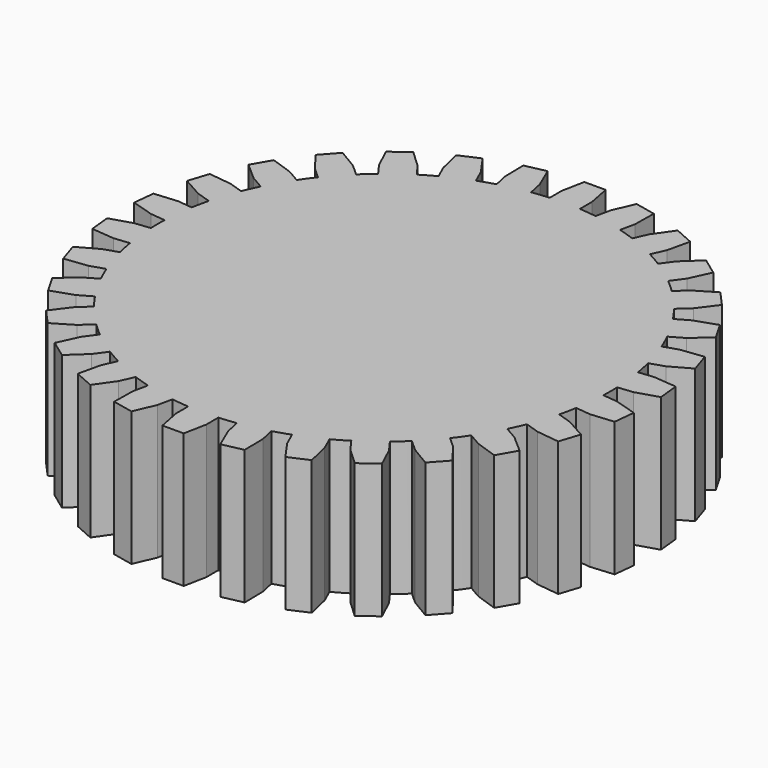
from build123d import *

# Parameters (mm, degrees)
F1_DEPTH = 17.8


with BuildPart() as f1:
    # F0 (on Top) → F1 (new body)
    with BuildSketch(Plane.XY):
        with BuildLine():
            Line((-25.069297, 19.881231), (-23.583008, 18.54297))
            ThreePointArc((-23.583008, 18.54297), (-24.27051, 17.633558), (-24.922963, 16.69868))
            Line((-24.922963, 16.69868), (-26.655014, 17.69868))
            Line((-26.655014, 17.69868), (-29.547976, 18.687922))
            Line((-29.547976, 18.687922), (-30.958203, 16.245337))
            Line((-30.958203, 16.245337), (-28.655014, 14.234579))
            Line((-28.655014, 14.234579), (-26.922963, 13.234579))
            ThreePointArc((-26.922963, 13.234579), (-27.406364, 12.202099), (-27.850187, 11.151999))
            Line((-27.850187, 11.151999), (-29.7523, 11.770033))
            Line((-29.7523, 11.770033), (-32.78772, 12.136176))
            Line((-32.78772, 12.136176), (-33.659288, 9.453765))
            Line((-33.659288, 9.453765), (-30.988368, 7.965807))
            Line((-30.988368, 7.965807), (-29.086255, 7.347773))
            ThreePointArc((-29.086255, 7.347773), (-29.344428, 6.237351), (-29.560225, 5.117921))
            Line((-29.560225, 5.117921), (-31.549268, 5.326978))
            Line((-31.549268, 5.326978), (-34.594482, 5.054021))
            Line((-34.594482, 5.054021), (-34.8893, 2.249018))
            Line((-34.8893, 2.249018), (-31.967382, 1.348891))
            Line((-31.967382, 1.348891), (-29.978338, 1.139834))
            ThreePointArc((-29.978338, 1.139834), (-30, 0), (-29.978338, -1.139834))
            Line((-29.978338, -1.139834), (-31.967382, -1.348891))
            Line((-31.967382, -1.348891), (-34.8893, -2.249018))
            Line((-34.8893, -2.249018), (-34.594482, -5.054021))
            Line((-34.594482, -5.054021), (-31.549268, -5.326978))
            Line((-31.549268, -5.326978), (-29.560225, -5.117921))
            ThreePointArc((-29.560225, -5.117921), (-29.344428, -6.237351), (-29.086255, -7.347773))
            Line((-29.086255, -7.347773), (-30.988368, -7.965807))
            Line((-30.988368, -7.965807), (-33.659288, -9.453765))
            Line((-33.659288, -9.453765), (-32.78772, -12.136176))
            Line((-32.78772, -12.136176), (-29.7523, -11.770033))
            Line((-29.7523, -11.770033), (-27.850187, -11.151999))
            ThreePointArc((-27.850187, -11.151999), (-27.406364, -12.202099), (-26.922963, -13.234579))
            Line((-26.922963, -13.234579), (-28.655014, -14.234579))
            Line((-28.655014, -14.234579), (-30.958203, -16.245337))
            Line((-30.958203, -16.245337), (-29.547976, -18.687922))
            Line((-29.547976, -18.687922), (-26.655014, -17.69868))
            Line((-26.655014, -17.69868), (-24.922963, -16.69868))
            ThreePointArc((-24.922963, -16.69868), (-24.27051, -17.633558), (-23.583008, -18.54297))
            Line((-23.583008, -18.54297), (-25.069297, -19.881231))
            Line((-25.069297, -19.881231), (-26.904097, -22.32691))
            Line((-26.904097, -22.32691), (-25.016845, -24.422916))
            Line((-25.016845, -24.422916), (-22.392775, -22.853811))
            Line((-22.392775, -22.853811), (-20.906485, -21.515549))
            ThreePointArc((-20.906485, -21.515549), (-20.073918, -22.294345), (-19.212362, -23.040945))
            Line((-19.212362, -23.040945), (-20.387933, -24.658979))
            Line((-20.387933, -24.658979), (-21.674152, -27.43269))
            Line((-21.674152, -27.43269), (-19.392357, -29.090511))
            Line((-19.392357, -29.090511), (-17.151865, -27.01012))
            Line((-17.151865, -27.01012), (-15.976294, -25.392086))
            ThreePointArc((-15.976294, -25.392086), (-15, -25.980762), (-14.002044, -26.53192))
            Line((-14.002044, -26.53192), (-14.815518, -28.359011))
            Line((-14.815518, -28.359011), (-15.496943, -31.339529))
            Line((-15.496943, -31.339529), (-12.92033, -32.486711))
            Line((-12.92033, -32.486711), (-11.161336, -29.985957))
            Line((-11.161336, -29.985957), (-10.347862, -28.158866))
            ThreePointArc((-10.347862, -28.158866), (-9.27051, -28.531695), (-8.17977, -28.863322))
            Line((-8.17977, -28.863322), (-8.595593, -30.819617))
            Line((-8.595593, -30.819617), (-8.642443, -33.876681))
            Line((-8.642443, -33.876681), (-5.883623, -34.463086))
            Line((-5.883623, -34.463086), (-4.683003, -31.651264))
            Line((-4.683003, -31.651264), (-4.267179, -29.694969))
            ThreePointArc((-4.267179, -29.694969), (-3.135854, -29.835657), (-2, -29.933259))
            Line((-2, -29.933259), (-2, -31.933259))
            Line((-2, -31.933259), (-1.410227, -34.933259))
            Line((-1.410227, -34.933259), (1.410227, -34.933259))
            Line((1.410227, -34.933259), (2, -31.933259))
            Line((2, -31.933259), (2, -29.933259))
            ThreePointArc((2, -29.933259), (3.135854, -29.835657), (4.267179, -29.694969))
            Line((4.267179, -29.694969), (4.683003, -31.651264))
            Line((4.683003, -31.651264), (5.883623, -34.463086))
            Line((5.883623, -34.463086), (8.642443, -33.876681))
            Line((8.642443, -33.876681), (8.595593, -30.819617))
            Line((8.595593, -30.819617), (8.17977, -28.863322))
            ThreePointArc((8.17977, -28.863322), (9.27051, -28.531695), (10.347862, -28.158866))
            Line((10.347862, -28.158866), (11.161336, -29.985957))
            Line((11.161336, -29.985957), (12.92033, -32.486711))
            Line((12.92033, -32.486711), (15.496943, -31.339529))
            Line((15.496943, -31.339529), (14.815518, -28.359011))
            Line((14.815518, -28.359011), (14.002044, -26.53192))
            ThreePointArc((14.002044, -26.53192), (15, -25.980762), (15.976294, -25.392086))
            Line((15.976294, -25.392086), (17.151865, -27.01012))
            Line((17.151865, -27.01012), (19.392357, -29.090511))
            Line((19.392357, -29.090511), (21.674152, -27.43269))
            Line((21.674152, -27.43269), (20.387933, -24.658979))
            Line((20.387933, -24.658979), (19.212362, -23.040945))
            ThreePointArc((19.212362, -23.040945), (20.073918, -22.294345), (20.906485, -21.515549))
            Line((20.906485, -21.515549), (22.392775, -22.853811))
            Line((22.392775, -22.853811), (25.016845, -24.422916))
            Line((25.016845, -24.422916), (26.904097, -22.32691))
            Line((26.904097, -22.32691), (25.069297, -19.881231))
            Line((25.069297, -19.881231), (23.583008, -18.54297))
            ThreePointArc((23.583008, -18.54297), (24.27051, -17.633558), (24.922963, -16.69868))
            Line((24.922963, -16.69868), (26.655014, -17.69868))
            Line((26.655014, -17.69868), (29.547976, -18.687922))
            Line((29.547976, -18.687922), (30.958203, -16.245337))
            Line((30.958203, -16.245337), (28.655014, -14.234579))
            Line((28.655014, -14.234579), (26.922963, -13.234579))
            ThreePointArc((26.922963, -13.234579), (27.406364, -12.202099), (27.850187, -11.151999))
            Line((27.850187, -11.151999), (29.7523, -11.770033))
            Line((29.7523, -11.770033), (32.78772, -12.136176))
            Line((32.78772, -12.136176), (33.659288, -9.453765))
            Line((33.659288, -9.453765), (30.988368, -7.965807))
            Line((30.988368, -7.965807), (29.086255, -7.347773))
            ThreePointArc((29.086255, -7.347773), (29.344428, -6.237351), (29.560225, -5.117921))
            Line((29.560225, -5.117921), (31.549268, -5.326978))
            Line((31.549268, -5.326978), (34.594482, -5.054021))
            Line((34.594482, -5.054021), (34.8893, -2.249018))
            Line((34.8893, -2.249018), (31.967382, -1.348891))
            Line((31.967382, -1.348891), (29.978338, -1.139834))
            ThreePointArc((29.978338, -1.139834), (30, 0), (29.978338, 1.139834))
            Line((29.978338, 1.139834), (31.967382, 1.348891))
            Line((31.967382, 1.348891), (34.8893, 2.249018))
            Line((34.8893, 2.249018), (34.594482, 5.054021))
            Line((34.594482, 5.054021), (31.549268, 5.326978))
            Line((31.549268, 5.326978), (29.560225, 5.117921))
            ThreePointArc((29.560225, 5.117921), (29.344428, 6.237351), (29.086255, 7.347773))
            Line((29.086255, 7.347773), (30.988368, 7.965807))
            Line((30.988368, 7.965807), (33.659288, 9.453765))
            Line((33.659288, 9.453765), (32.78772, 12.136176))
            Line((32.78772, 12.136176), (29.7523, 11.770033))
            Line((29.7523, 11.770033), (27.850187, 11.151999))
            ThreePointArc((27.850187, 11.151999), (27.406364, 12.202099), (26.922963, 13.234579))
            Line((26.922963, 13.234579), (28.655014, 14.234579))
            Line((28.655014, 14.234579), (30.958203, 16.245337))
            Line((30.958203, 16.245337), (29.547976, 18.687922))
            Line((29.547976, 18.687922), (26.655014, 17.69868))
            Line((26.655014, 17.69868), (24.922963, 16.69868))
            ThreePointArc((24.922963, 16.69868), (24.27051, 17.633558), (23.583008, 18.54297))
            Line((23.583008, 18.54297), (25.069297, 19.881231))
            Line((25.069297, 19.881231), (26.904097, 22.32691))
            Line((26.904097, 22.32691), (25.016845, 24.422916))
            Line((25.016845, 24.422916), (22.392775, 22.853811))
            Line((22.392775, 22.853811), (20.906485, 21.515549))
            ThreePointArc((20.906485, 21.515549), (20.073918, 22.294345), (19.212362, 23.040945))
            Line((19.212362, 23.040945), (20.387933, 24.658979))
            Line((20.387933, 24.658979), (21.674152, 27.43269))
            Line((21.674152, 27.43269), (19.392357, 29.090511))
            Line((19.392357, 29.090511), (17.151865, 27.01012))
            Line((17.151865, 27.01012), (15.976294, 25.392086))
            ThreePointArc((15.976294, 25.392086), (15, 25.980762), (14.002044, 26.53192))
            Line((14.002044, 26.53192), (14.815518, 28.359011))
            Line((14.815518, 28.359011), (15.496943, 31.339529))
            Line((15.496943, 31.339529), (12.92033, 32.486711))
            Line((12.92033, 32.486711), (11.161336, 29.985957))
            Line((11.161336, 29.985957), (10.347862, 28.158866))
            ThreePointArc((10.347862, 28.158866), (9.27051, 28.531695), (8.17977, 28.863322))
            Line((8.17977, 28.863322), (8.595593, 30.819617))
            Line((8.595593, 30.819617), (8.642443, 33.876681))
            Line((8.642443, 33.876681), (5.883623, 34.463086))
            Line((5.883623, 34.463086), (4.683003, 31.651264))
            Line((4.683003, 31.651264), (4.267179, 29.694969))
            ThreePointArc((4.267179, 29.694969), (3.135854, 29.835657), (2, 29.933259))
            Line((2, 29.933259), (2, 31.933259))
            Line((2, 31.933259), (1.410227, 34.933259))
            Line((1.410227, 34.933259), (-1.410227, 34.933259))
            Line((-1.410227, 34.933259), (-2, 31.933259))
            Line((-2, 31.933259), (-2, 29.933259))
            ThreePointArc((-2, 29.933259), (-3.135854, 29.835657), (-4.267179, 29.694969))
            Line((-4.267179, 29.694969), (-4.683003, 31.651264))
            Line((-4.683003, 31.651264), (-5.883623, 34.463086))
            Line((-5.883623, 34.463086), (-8.642443, 33.876681))
            Line((-8.642443, 33.876681), (-8.595593, 30.819617))
            Line((-8.595593, 30.819617), (-8.17977, 28.863322))
            ThreePointArc((-8.17977, 28.863322), (-9.27051, 28.531695), (-10.347862, 28.158866))
            Line((-10.347862, 28.158866), (-11.161336, 29.985957))
            Line((-11.161336, 29.985957), (-12.92033, 32.486711))
            Line((-12.92033, 32.486711), (-15.496943, 31.339529))
            Line((-15.496943, 31.339529), (-14.815518, 28.359011))
            Line((-14.815518, 28.359011), (-14.002044, 26.53192))
            ThreePointArc((-14.002044, 26.53192), (-15, 25.980762), (-15.976294, 25.392086))
            Line((-15.976294, 25.392086), (-17.151865, 27.01012))
            Line((-17.151865, 27.01012), (-19.392357, 29.090511))
            Line((-19.392357, 29.090511), (-21.674152, 27.43269))
            Line((-21.674152, 27.43269), (-20.387933, 24.658979))
            Line((-20.387933, 24.658979), (-19.212362, 23.040945))
            ThreePointArc((-19.212362, 23.040945), (-20.073918, 22.294345), (-20.906485, 21.515549))
            Line((-20.906485, 21.515549), (-22.392775, 22.853811))
            Line((-22.392775, 22.853811), (-25.016845, 24.422916))
            Line((-25.016845, 24.422916), (-26.904097, 22.32691))
            Line((-26.904097, 22.32691), (-25.069297, 19.881231))
        make_face()
    extrude(amount=F1_DEPTH)


solid = f1.part
